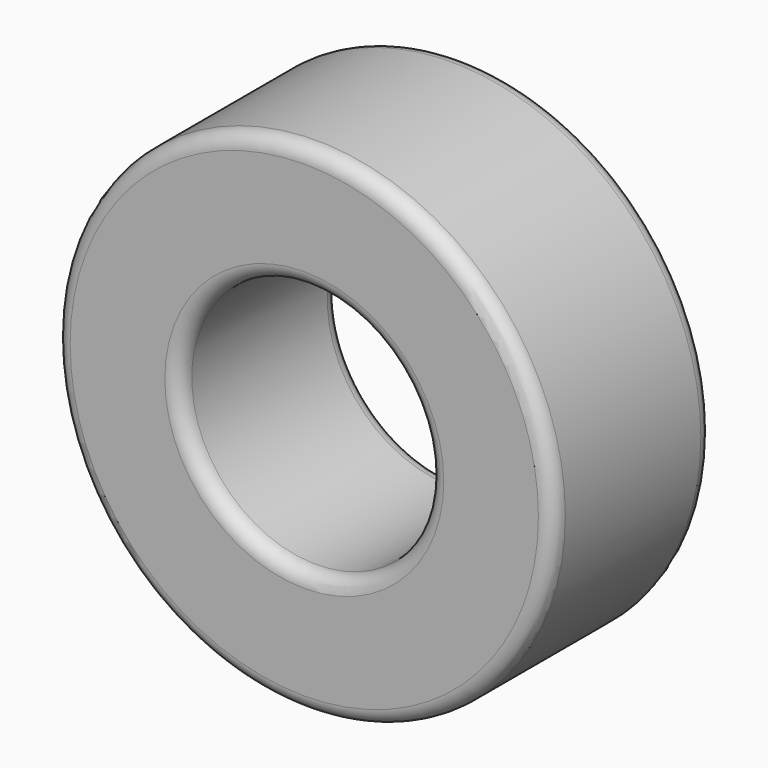
from build123d import *

# Parameters (mm, degrees)
F0_R     = 5
F0_R_2   = 2.5
F1_DEPTH = 2
F2_R     = 0.3


with BuildPart() as f1:
    # F0 (on Front) → F1 (new body, symmetric)
    with BuildSketch(Plane.XZ):
        Circle(F0_R)
        Circle(F0_R_2, mode=Mode.SUBTRACT)
    extrude(amount=F1_DEPTH, both=True)

    # F2
    f2_edges = [f1.edges().sort_by_distance(p)[0] for p in [
        (-5, 2, 0),
        (5, 0, 0),
        (-5, -2, 0),
        (-2.5, -2, 0),
        (2.5, 0, 0),
        (-2.5, 2, 0),
    ]]
    fillet(f2_edges, radius=F2_R)


solid = f1.part
